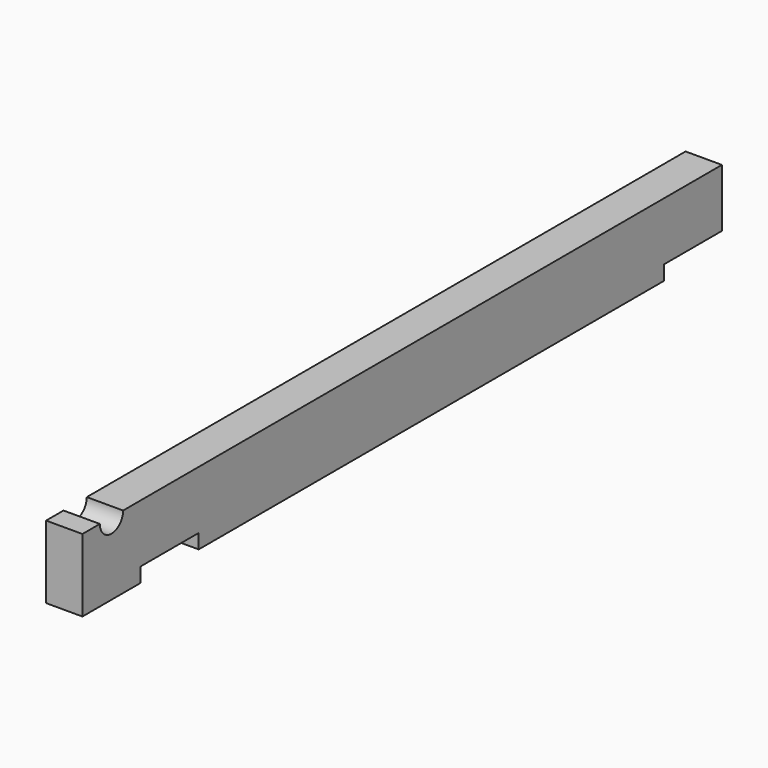
from build123d import *

# Parameters (mm, degrees)
F0_W     = 50
F0_H     = 100
F1_DEPTH = 1100
F2_W     = 100
F2_H     = 20
F3_DEPTH = 50.001
F5_DEPTH = 50.001


with BuildPart() as f1:
    # F0 (on Front) → F1 (new body)
    with BuildSketch(Plane.XZ):
        with Locations((25, 50)):
            Rectangle(F0_W, F0_H)
    extrude(amount=F1_DEPTH)

    # F2 (on face) → F3 (cut, through all)
    with BuildSketch(Plane.YZ.offset(50)):
        with Locations((-50, 10)):
            Rectangle(F2_W, F2_H)
        with Locations((-950, 10)):
            Rectangle(F2_W, F2_H)
    extrude(amount=-F3_DEPTH, mode=Mode.SUBTRACT)

    # F4 (on face) → F5 (cut, through all)
    with BuildSketch(Plane.YZ.offset(50)):
        with BuildLine():
            Line((-1030, 100), (-1070, 100))
            ThreePointArc((-1070, 100), (-1050, 80), (-1030, 100))
        make_face()
    extrude(amount=-F5_DEPTH, mode=Mode.SUBTRACT)


solid = f1.part
